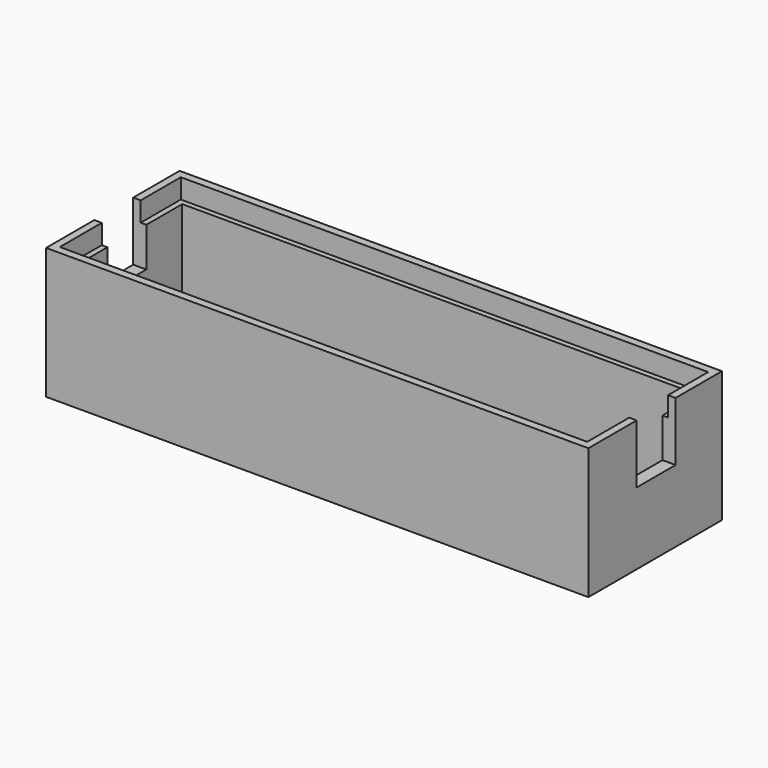
from build123d import *

# Parameters (mm, degrees)
F0_W     = 41.3636378944
F0_H     = 12.7272736281
F1_DEPTH = 10
F2_T     = -1
F3_W     = 40.2219519019
F3_H     = 11.5317674354
F4_DEPTH = 1.5
F5_W     = 3.7121215137
F5_H     = 4.5032251999
F6_DEPTH = 60


with BuildPart() as f1:
    # F0 (on Top) → F1 (new body)
    with BuildSketch(Plane.XY):
        Rectangle(F0_W, F0_H)
    extrude(amount=F1_DEPTH)

    # F2
    f2_openings = [f1.faces().sort_by_distance(p)[0] for p in [
        (0, 0, 10),
    ]]
    offset(amount=F2_T, openings=f2_openings)

    # F3 (on face) → F4 (cut)
    with BuildSketch(Plane.XY.offset(10)):
        Rectangle(F3_W, F3_H)
    extrude(amount=-F4_DEPTH, mode=Mode.SUBTRACT)

    # F5 (on face) → F6 (cut)
    with BuildSketch(Plane(origin=(-20.6818189472, 0, 0), x_dir=(0, -1, 0), z_dir=(-1, 0, 0))):
        with Locations((-0.0884092296, 7.7483874001)):
            Rectangle(F5_W, F5_H)
    extrude(amount=-F6_DEPTH, mode=Mode.SUBTRACT)


solid = f1.part
